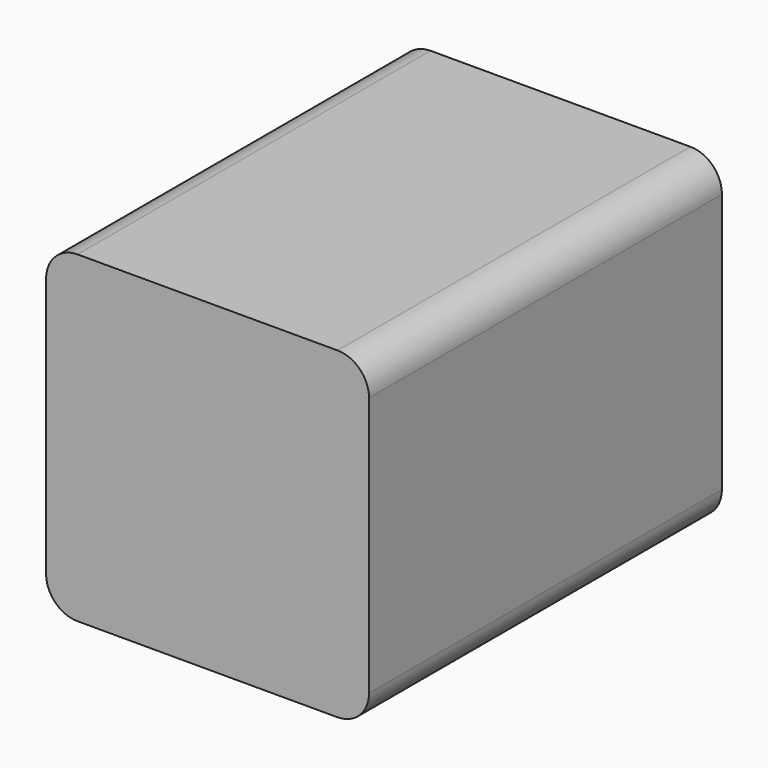
from build123d import *

# Parameters (mm, degrees)
F1_DEPTH = 28
F2_R     = 1
F3_DEPTH = 25.5


with BuildPart() as f1:
    # F0 (on Front) → F1 (new body)
    with BuildSketch(Plane.XZ):
        with BuildLine():
            Line((8.25, 10.25), (-8.25, 10.25))
            ThreePointArc((-8.25, 10.25), (-9.6642135624, 9.6642135624), (-10.25, 8.25))
            Line((-10.25, 8.25), (-10.25, -8.25))
            ThreePointArc((-10.25, -8.25), (-9.6642135624, -9.6642135624), (-8.25, -10.25))
            Line((-8.25, -10.25), (8.25, -10.25))
            ThreePointArc((8.25, -10.25), (9.6642135624, -9.6642135624), (10.25, -8.25))
            Line((10.25, -8.25), (10.25, 8.25))
            ThreePointArc((10.25, 8.25), (9.6642135624, 9.6642135624), (8.25, 10.25))
        make_face()
        with BuildLine():
            ThreePointArc((-7.7, 6.7), (-8.4071067812, 8.4071067812), (-6.7, 7.7))
            Line((-6.7, 7.7), (6.7, 7.7))
            ThreePointArc((6.7, 7.7), (7.7, 8.7), (8.7, 7.7))
            ThreePointArc((8.7, 7.7), (8.4071067812, 6.9928932188), (7.7, 6.7))
            Line((7.7, 6.7), (7.7, -6.7))
            ThreePointArc((7.7, -6.7), (8.4071067812, -6.9928932188), (8.7, -7.7))
            ThreePointArc((8.7, -7.7), (7.7, -8.7), (6.7, -7.7))
            Line((6.7, -7.7), (-6.7, -7.7))
            ThreePointArc((-6.7, -7.7), (-8.4071067812, -8.4071067812), (-7.7, -6.7))
            Line((-7.7, -6.7), (-7.7, 6.7))
        make_face(mode=Mode.SUBTRACT)
        with BuildLine():
            Line((6.7, 7.7), (-6.7, 7.7))
            ThreePointArc((-6.7, 7.7), (-6.9928932188, 6.9928932188), (-7.7, 6.7))
            Line((-7.7, 6.7), (-7.7, -6.7))
            ThreePointArc((-7.7, -6.7), (-6.9928932188, -6.9928932188), (-6.7, -7.7))
            Line((-6.7, -7.7), (6.7, -7.7))
            ThreePointArc((6.7, -7.7), (6.9928932188, -6.9928932188), (7.7, -6.7))
            Line((7.7, -6.7), (7.7, 6.7))
            ThreePointArc((7.7, 6.7), (6.9928932188, 6.9928932188), (6.7, 7.7))
        make_face()
    extrude(amount=F1_DEPTH)

    # F2 (on face) → F3 (join)
    with BuildSketch(Plane.XZ.offset(28)):
        with Locations((-7.7, 7.7)):
            Circle(F2_R)
        with Locations((7.7, 7.7)):
            Circle(F2_R)
        with Locations((7.7, -7.7)):
            Circle(F2_R)
        with Locations((-7.7, -7.7)):
            Circle(F2_R)
    extrude(amount=-F3_DEPTH)

    # F5 (on offset) → F6 (revolve)
    with BuildSketch(Plane(origin=(0, 0, 0), x_dir=(0, -1, 0), z_dir=(-1, 0, 0))):
        Polygon((-10, 0), (0, 0), (0, 8), (-1.5, 8), (-1.5, 2), (-10, 2), align=None)
    revolve(axis=Axis((0, 5, 0), (0, 1, 0)))


solid = f1.part
